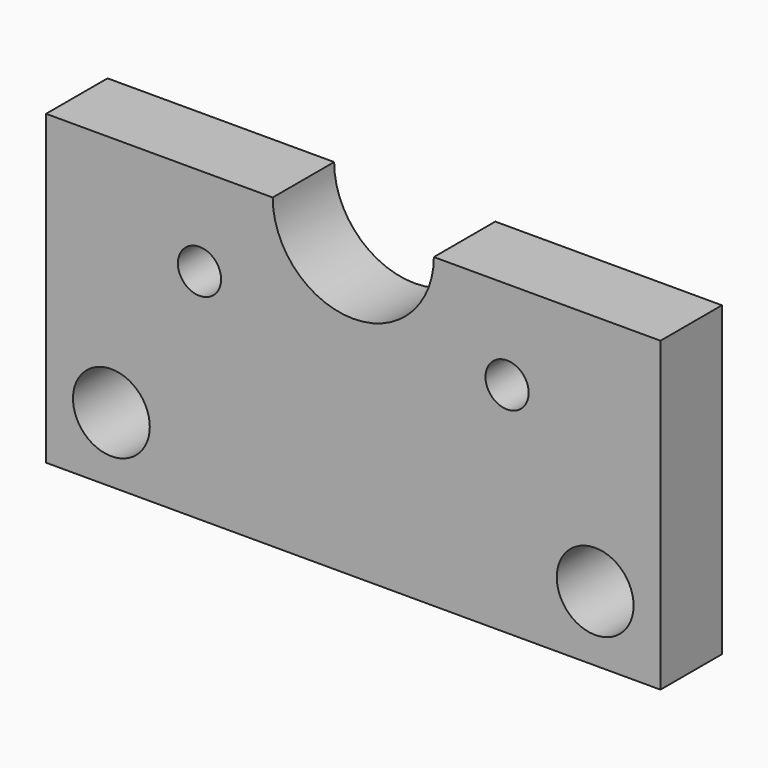
from build123d import *

# Parameters (mm, degrees)
SKETCH060_R  = 3.571875
PAD060_DEPTH = 50
SKETCH059_R  = 3.571875
PAD059_DEPTH = 33.7
SKETCH058_R  = 6.35
PAD058_DEPTH = 12.7


with BuildPart() as body060:
    # Sketch060 → Pad060 (new body)
    with BuildSketch(Plane.XZ):
        Circle(SKETCH060_R)
    extrude(amount=PAD060_DEPTH)


with BuildPart() as body060_1:
    # Body060 placement: moved
    add(body060.part.moved(Location((66.23, 10, 105.316))))


with BuildPart() as body059:
    # Sketch059 → Pad059 (new body)
    with BuildSketch(Plane.XZ):
        Circle(SKETCH059_R)
    extrude(amount=PAD059_DEPTH)


with BuildPart() as body059_1:
    # Body059 placement: moved
    add(body059.part.moved(Location((15.37, 5, 105.316))))


with BuildPart() as cut050:
    # Sketch058 → Pad058 (new body)
    with BuildSketch(Plane.XZ):
        with BuildLine():
            Line((0, 59.2), (0, 110))
            Line((0, 110), (37.475, 110))
            ThreePointArc((37.475, 110), (50.8, 96.67502), (64.125, 110))
            Line((64.125, 110), (101.6, 110))
            Line((101.6, 110), (101.6, 59.2))
            Line((101.6, 59.2), (0, 59.2))
        make_face()
        with Locations((10.8, 70.00002)):
            Circle(SKETCH058_R, mode=Mode.SUBTRACT)
        with Locations((90.8, 70.00002)):
            Circle(SKETCH058_R, mode=Mode.SUBTRACT)
    extrude(amount=PAD058_DEPTH)


with BuildPart() as cut050_1:
    # Body058 placement: moved
    add(cut050.part.moved(Location((-10, 0, 10))))

    # Cut049: cut Body059
    add(body059_1.part, mode=Mode.SUBTRACT)

    # Cut050: cut Body060
    add(body060_1.part, mode=Mode.SUBTRACT)


with BuildPart() as cut050_2:
    # Cut050 placement: moved
    add(cut050_1.part.moved(Location((100, 0, 0))))


solid = cut050_2.part
